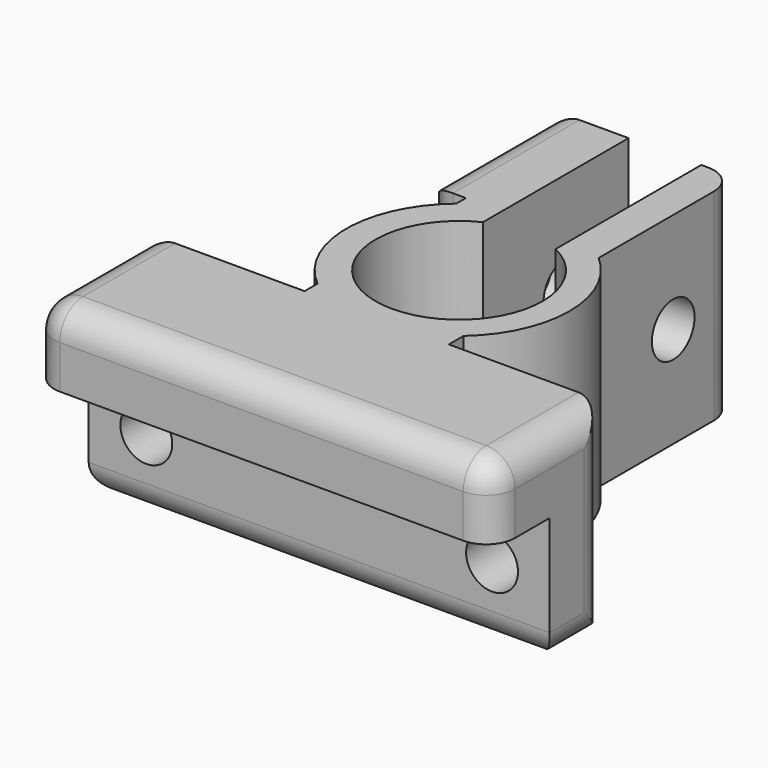
from build123d import *

# Parameters (mm, degrees)
PAD_DEPTH       = 14
POCKET_DEPTH    = 14.001
POCKET001_DEPTH = 3
SKETCH007_R     = 1.85
POCKET002_DEPTH = 21.001
SKETCH008_R     = 1.8
POCKET003_DEPTH = 5
SKETCH009_W     = 32
SKETCH009_H     = 5
PAD001_DEPTH    = 5
FILLET_R        = 2


with BuildPart() as part:
    # Sketch → Pad (new body)
    with BuildSketch(Plane.XY):
        Polygon((-8, 30), (8, 30), (8, 5), (16, 5), (16, 0), (-16, 0), (-16, 5), (-8, 5), align=None)
    extrude(amount=PAD_DEPTH)

    # Sketch002 → Pocket (cut, through all)
    with BuildSketch(Plane.XY.offset(14)):
        with BuildLine():
            ThreePointArc((-5.012819, 18.154908), (-7.83109, 12.138463), (-5.012819, 6.122018))
            Line((-5.012819, 5), (-5.012819, 6.122018))
            Line((-8.968158, 5), (-5.012819, 5))
            Line((-8.890375, 30.926365), (-8.968158, 5))
            Line((-7.922217, 30.944389), (-8.890375, 30.926365))
            Line((-7.922217, 19), (-7.922217, 30.944389))
            Line((-5.012819, 19), (-7.922217, 19))
            Line((-5.012819, 18.154908), (-5.012819, 19))
        make_face()
        with BuildLine():
            Line((5, 31), (5, 18))
            ThreePointArc((5, 6.276926), (7.670247, 12.138463), (5, 18))
            Line((5, 6.276926), (5, 5))
            Line((10, 5), (5, 5))
            Line((10, 31), (10, 5))
            Line((5, 31), (10, 31))
        make_face()
        with BuildLine():
            ThreePointArc((-2.521136, 17.36186), (-0.003033, 6.338464), (2.526597, 17.35922))
            Line((2.526597, 31), (2.526597, 17.35922))
            Line((-2.521136, 31), (2.526597, 31))
            Line((-2.521136, 17.36186), (-2.521136, 31))
        make_face()
    extrude(amount=-POCKET_DEPTH, mode=Mode.SUBTRACT)

    # Sketch006 → Pocket001 (cut)
    with BuildSketch(Plane(origin=(-7.922217, 0, 0), x_dir=(0, -1, 0), z_dir=(-1, 0, 0))):
        Polygon((-21.086217, 5.037009), (-21.086217, 8.962991), (-24.486217, 10.925982), (-27.886217, 8.962991), (-27.886217, 5.037009), (-24.486217, 3.074018), align=None)
    extrude(amount=-POCKET001_DEPTH, mode=Mode.SUBTRACT)

    # Sketch007 → Pocket002 (cut, through all)
    with BuildSketch(Plane.YZ.offset(5)):
        with Locations((24.472246, 7)):
            Circle(SKETCH007_R)
    extrude(amount=-POCKET002_DEPTH, mode=Mode.SUBTRACT)

    # Sketch008 → Pocket003 (cut)
    with BuildSketch(Plane.XZ):
        with Locations((-12, 5)):
            Circle(SKETCH008_R)
        with Locations((12, 5)):
            Circle(SKETCH008_R)
    extrude(amount=-POCKET003_DEPTH, mode=Mode.SUBTRACT)

    # Sketch009 → Pad001 (new body)
    with BuildSketch(Plane.XZ):
        with Locations((0, 11.5)):
            Rectangle(SKETCH009_W, SKETCH009_H)
    extrude(amount=PAD001_DEPTH)

    # Fillet
    fillet_edges = [part.edges().sort_by_distance(p)[0] for p in [
        (-16, -5, 11.5),
        (16, -5, 11.5),
        (16, 5, 7),
        (5, 30, 7),
        (-16, 5, 7),
        (-7.922217, 30, 7),
        (0, 0, 0),
        (-16, 0, 14),
        (0, -5, 14),
        (16, 0, 14),
        (16, 2.5, 0),
        (-16, 2.5, 0),
        (-7.922217, 24.5, 0),
        (-7.922217, 24.5, 14),
        (-7.922217, 19, 7),
    ]]
    fillet(fillet_edges, radius=FILLET_R)


solid = part.part
